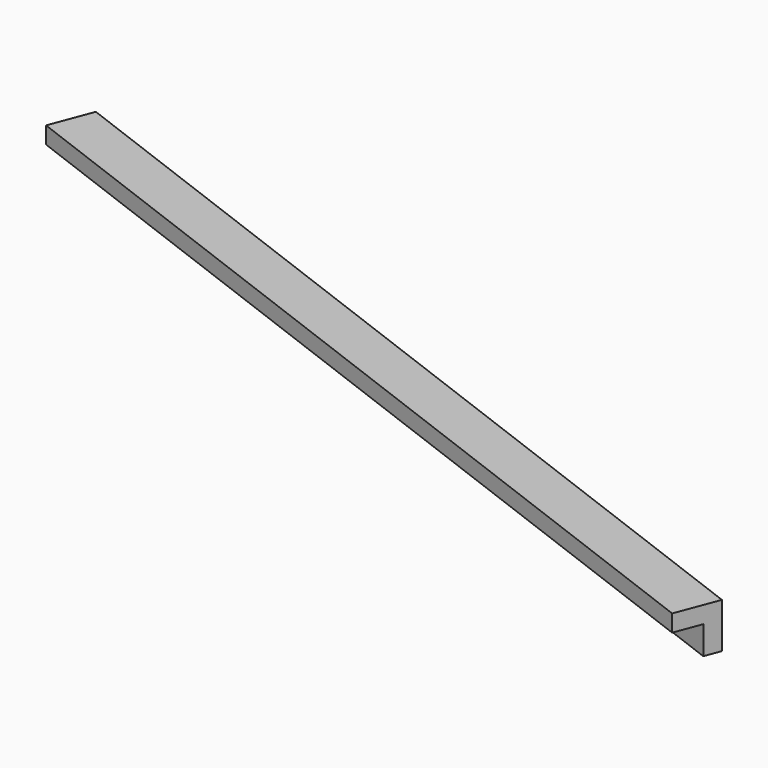
from build123d import *

# Parameters (mm, degrees)
BOX109_W               = 0.8
BOX109_H               = 17
BOX109_DEPTH           = 0.8
BOX110_W               = 0.8
BOX110_H               = 17
BOX110_DEPTH           = 0.8
CUT058_PLACEMENT_ANGLE = 69.3


with BuildPart() as cubo109:
    # Box109 → Box109 (new body)
    with BuildSketch(Plane.XY):
        with Locations((0.4, 8.5)):
            Rectangle(BOX109_W, BOX109_H)
    extrude(amount=BOX109_DEPTH)


with BuildPart() as obj1:
    # Box110 → Box110 (new body)
    with BuildSketch(Plane(origin=(0.3, 0, 0.3), x_dir=(1, 0, 0), z_dir=(0, 0, 1))):
        with Locations((0.4, 8.5)):
            Rectangle(BOX110_W, BOX110_H)
    extrude(amount=BOX110_DEPTH)

    # Cut058: cut Cubo109
    add(cubo109.part, mode=Mode.SUBTRACT)


with BuildPart() as obj1_1:
    # Cut058 placement: moved
    add(obj1.part.moved(Location((-203.4, 76.3, -1.45))).rotate(Axis((-203.4, 76.3, -1.45), (0, 0, 1)), CUT058_PLACEMENT_ANGLE))


solid = obj1_1.part
